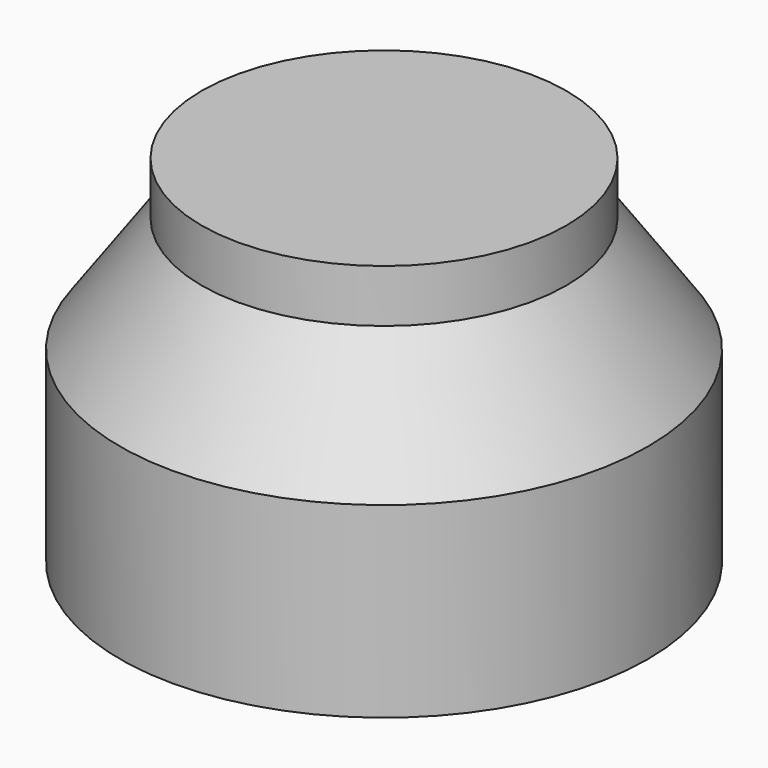
from build123d import *

# Parameters (mm, degrees)
F0_W = 6.35
F0_H = 17.145


with BuildPart() as f1:
    # F0 (on Front) → F1 (revolve)
    with BuildSketch(Plane.XZ):
        Polygon((28.575, 24.765), (34.925, 24.765), (24.13, 40.005), (17.78, 40.005), align=None)
        Polygon((17.78, 40.005), (24.13, 40.005), (24.13, 46.99), (0, 46.99), (0, 40.005), align=None)
        Polygon((17.78, 17.145), (28.575, 17.145), (34.925, 17.145), (34.925, 24.765), (28.575, 24.765), (17.78, 24.765), align=None)
        with Locations((31.75, 8.5725)):
            Rectangle(F0_W, F0_H)
    revolve(axis=Axis((0, 0, 1.439031), (0, 0, -1)))


solid = f1.part
